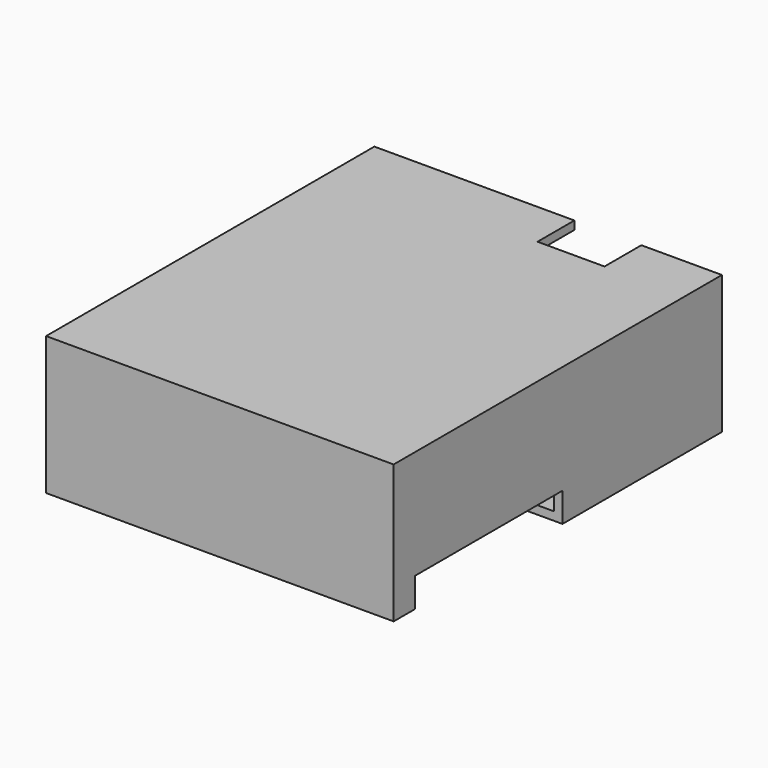
from build123d import *

# Parameters (mm, degrees)
F0_W     = 41.5
F0_H     = 49
F1_DEPTH = 16.5
F2_W     = 39.5
F2_H     = 14.5
F3_DEPTH = 48
F4_W     = 8
F4_H     = 5.5
F5_DEPTH = 1.000984
F6_W     = 5.75
F6_H     = 22
F7_DEPTH = 3.5


with BuildPart() as f1:
    # F0 (on Top) → F1 (new body)
    with BuildSketch(Plane.XY):
        with Locations((-20.077741, -10.186185)):
            Rectangle(F0_W, F0_H)
    extrude(amount=F1_DEPTH)

    # F2 (on face) → F3 (cut)
    with BuildSketch(Plane(origin=(0, 14.313815, 0), x_dir=(-1, 0, 0), z_dir=(0, 1, 0))):
        with Locations((20.061721, 8.249016)):
            Rectangle(F2_W, F2_H)
    extrude(amount=-F3_DEPTH, mode=Mode.SUBTRACT)

    # F4 (on face) → F5 (cut, through all)
    with BuildSketch(Plane.XY.offset(16.5)):
        with Locations((-12.947741, 11.563815)):
            Rectangle(F4_W, F4_H)
    extrude(amount=-F5_DEPTH, mode=Mode.SUBTRACT)

    # F6 (on face) → F7 (cut)
    with BuildSketch(Plane(origin=(0, 0, 0), x_dir=(1, 0, 0), z_dir=(0, 0, -1))):
        with Locations((-2.202741, 20.486185)):
            Rectangle(F6_W, F6_H)
    extrude(amount=-F7_DEPTH, mode=Mode.SUBTRACT)


solid = f1.part
